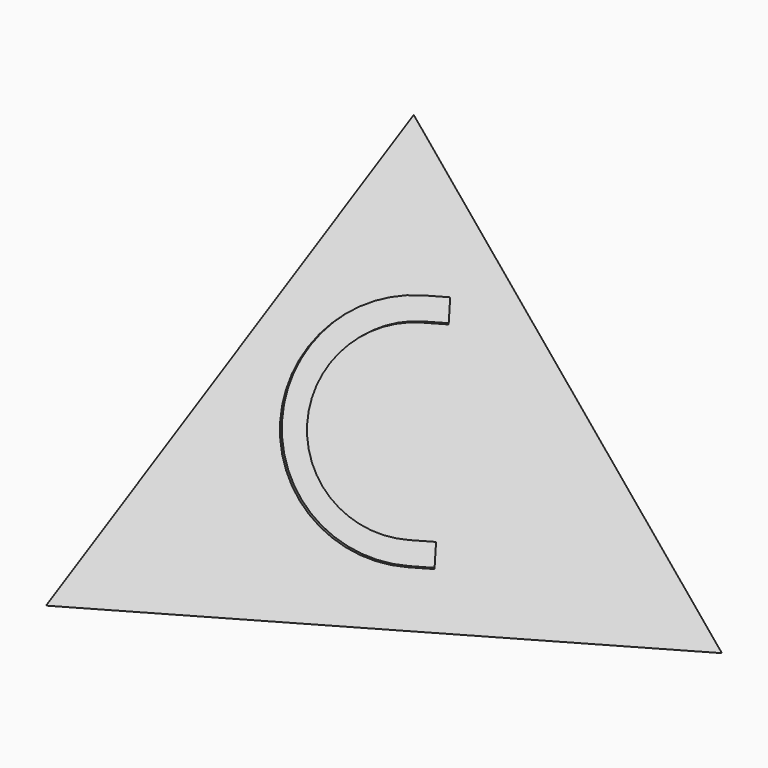
from build123d import *

# Parameters (mm, degrees)
F5_DEPTH = 1
F7_DEPTH = 1
F9_DEPTH = 1


with BuildPart() as f3:
    # F0 (on Top) → F3 section 0
    with BuildSketch(Plane.XY, mode=Mode.PRIVATE) as f3_s0:
        Polygon((-14.4337567297, 25), (-14.4337567297, -25), (28.8675134595, 0), align=None)
    loft([f3_s0.sketch, Vertex(0, 0, 35)])

    # F4 (on face) → F5 (cut)
    with BuildSketch(Plane(origin=(-12.3358269725, 0, 5.0872093023), x_dir=(0, -1, 0), z_dir=(-0.9244734516, 0, 0.3812464258))):
        Polygon((-2, -0.5028181645), (0, -0.5028181645), (0, 9.4971818355), (0, 11.4971818355), (0, 17.4971818355), (0, 19.4971818355), (-2, 19.4971818355), align=None)
        with BuildLine():
            Line((0, 11.4971818355), (0, 9.4971818355))
            ThreePointArc((0, 9.4971818355), (5, 14.4971818355), (0, 19.4971818355))
            Line((0, 19.4971818355), (0, 17.4971818355))
            ThreePointArc((0, 17.4971818355), (3, 14.4971818355), (0, 11.4971818355))
        make_face()
    extrude(amount=-F5_DEPTH, mode=Mode.SUBTRACT)

    # F6 (on face) → F7 (cut)
    with BuildSketch(Plane(origin=(6.1679134863, -10.6831395349, 5.0872093023), x_dir=(0.8867565671, 0.4173352901, -0.1987310905), z_dir=(0.4622367258, -0.8006174942, 0.3812464258))):
        with BuildLine():
            Line((-0.7380038788, 19.4712978038), (-2.691246597, 19.0413642234))
            ThreePointArc((-2.691246597, 19.0413642234), (-10.3077922864, 7.1254827301), (1.6080892069, -0.4910629592))
            Line((1.6080892069, -0.4910629592), (3.5613319251, -0.0611293789))
            Line((3.5613319251, -0.0611293789), (3.1313983448, 1.8921133394))
            Line((3.1313983448, 1.8921133394), (1.1781556265, 1.462179759))
            ThreePointArc((1.1781556265, 1.462179759), (-8.3545495681, 7.5554163105), (-2.2613130166, 17.0881215051))
            Line((-2.2613130166, 17.0881215051), (-0.3080702984, 17.5180550855))
            Line((-0.3080702984, 17.5180550855), (-0.7380038788, 19.4712978038))
        make_face()
    extrude(amount=-F7_DEPTH, mode=Mode.SUBTRACT)

    # F8 (on face) → F9 (cut)
    with BuildSketch(Plane(origin=(6.1679134863, 10.6831395349, 5.0872093023), x_dir=(-0.8867565671, 0.4173352901, 0.1987310905), z_dir=(0.4622367258, 0.8006174942, 0.3812464258))):
        Polygon((2.3919107931, -0.2709502327), (3.3919107931, -0.4910629592), (3.3919107931, 14.4979807209), (3.0442146526, 14.5745130664), (-3.9632350967, 2.4372540691), (-3.9632350967, 16.4866717508), (-4.1080892069, 16.518555984), (-11.6080892069, 3.5281749272), (-10.5972096929, 3.2790696058), (-4.9632350967, 13.037399855), (-4.9632350967, 1.6334285103), (-4.1782018869, 1.46063271), (-3.4632453686, 1.3032616814), (2.3919107931, 11.4446896398), align=None)
        with BuildLine():
            ThreePointArc((5.1544700324, -0.6785410767), (9.4095342954, 1.5116065738), (8.0476246724, 6.0993642823))
            ThreePointArc((8.0476246724, 6.0993642823), (11.5155654495, 9.8960628609), (8.3789718853, 13.9707793103))
            Line((8.3789718853, 13.9707793103), (7.4023505262, 14.1857461004))
            Line((7.4023505262, 14.1857461004), (4.1778486732, -0.4635742865))
            Line((4.1778486732, -0.4635742865), (5.1544700324, -0.6785410767))
        make_face()
        with BuildLine():
            ThreePointArc((6.5517541686, 5.6694977576), (8.6463042332, 2.392630347), (5.3694368226, 0.2980802824))
            Line((5.3694368226, 0.2980802824), (5.9605954956, 2.98378902))
            Line((5.9605954956, 2.98378902), (6.0680788907, 3.4720996996))
            Line((6.0680788907, 3.4720996996), (6.5517541686, 5.6694977576))
        make_face(mode=Mode.SUBTRACT)
        with BuildLine():
            ThreePointArc((8.0476246724, 6.0993642823), (7.3508737117, 6.0678331487), (6.6592375637, 6.1578084372))
            Line((6.6592375637, 6.1578084372), (6.7667209588, 6.6461191168))
            ThreePointArc((6.7667209588, 6.6461191168), (7.4327779419, 6.4327278198), (8.0476246724, 6.0993642823))
        make_face(mode=Mode.SUBTRACT)
        with BuildLine():
            ThreePointArc((8.1640050951, 12.9941579511), (10.4489688019, 9.4193935031), (6.8742043539, 7.1344297963))
            Line((6.8742043539, 7.1344297963), (7.4116213294, 9.5759831942))
            Line((7.4116213294, 9.5759831942), (7.5191047245, 10.0642938737))
            Line((7.5191047245, 10.0642938737), (8.1640050951, 12.9941579511))
        make_face(mode=Mode.SUBTRACT)
        with BuildLine():
            Line((6.7667209588, 6.6461191168), (6.6592375637, 6.1578084372))
            ThreePointArc((6.6592375637, 6.1578084372), (7.3508737117, 6.0678331487), (8.0476246724, 6.0993642823))
            ThreePointArc((8.0476246724, 6.0993642823), (7.4327779419, 6.4327278198), (6.7667209588, 6.6461191168))
        make_face()
    extrude(amount=-F9_DEPTH, mode=Mode.SUBTRACT)


solid = f3.part
